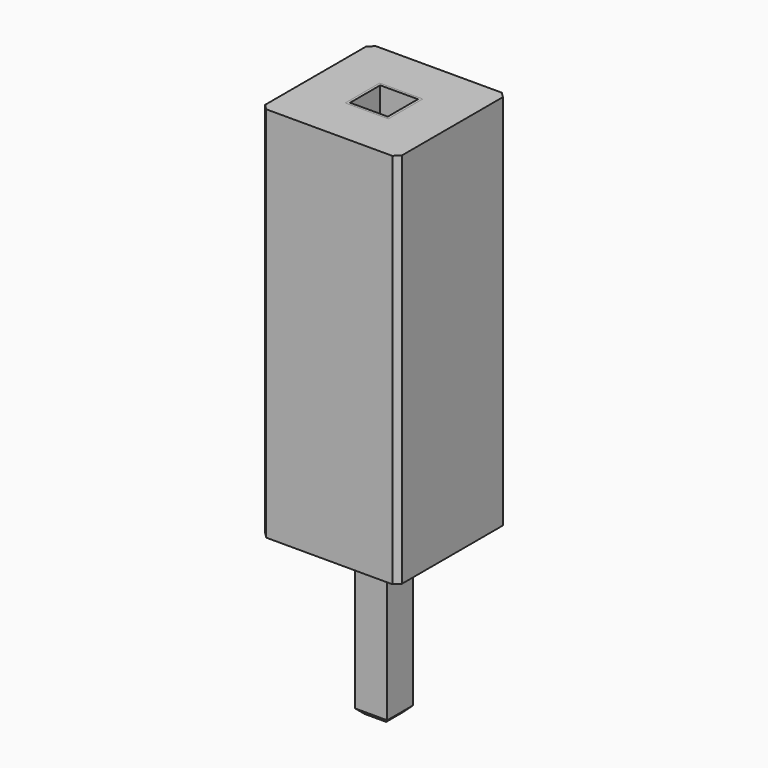
from build123d import *

# Parameters (mm, degrees)
F0_W          = 2.54
F0_H          = 2.54
F0_W_2        = 0.8
F0_H_2        = 0.8
F1_DEPTH      = 7
F2_SIZE       = 0.1
F3_W          = 0.8
F3_H          = 0.8
F3_W_2        = 0.7
F3_H_2        = 0.7
F4_DEPTH      = 7
F3_W_3        = 0.6
F3_H_3        = 0.6
F5_DEPTH      = 0.1
F6_DEPTH      = 3
F6_DEPTH_BACK = 0.1
F7_SIZE       = 0.1


with BuildPart() as f1:
    # F0 (on Top) → F1 (new body)
    with BuildSketch(Plane.XY):
        Rectangle(F0_W, F0_H)
        Rectangle(F0_W_2, F0_H_2, mode=Mode.SUBTRACT)
    extrude(amount=F1_DEPTH)

    # F2
    f2_edges = [f1.edges().sort_by_distance(p)[0] for p in [
        (1.27, -1.27, 3.5),
        (-1.27, -1.27, 3.5),
        (-1.27, 1.27, 3.5),
        (1.27, 1.27, 3.5),
    ]]
    chamfer(f2_edges, length=F2_SIZE)


with BuildPart() as f4:
    # F3 (on Top) → F4 (new body, through all)
    with BuildSketch(Plane.XY):
        Rectangle(F3_W, F3_H)
        Rectangle(F3_W_2, F3_H_2, mode=Mode.SUBTRACT)
    extrude(amount=F4_DEPTH)

    # F3 (on Top) → F5 (join)
    with BuildSketch(Plane.XY):
        Rectangle(F3_W_2, F3_H_2)
        Rectangle(F3_W_3, F3_H_3, mode=Mode.SUBTRACT)
    extrude(amount=F5_DEPTH)

    # F3 (on Top) → F6 (join, two sides)
    with BuildSketch(Plane.XY) as f6_sk:
        Rectangle(F3_W_3, F3_H_3)
    extrude(amount=-F6_DEPTH)
    extrude(f6_sk.sketch, amount=F6_DEPTH_BACK)

    # F7
    f7_edges = [f4.edges().sort_by_distance(p)[0] for p in [
        (0.3, 0, -3),
        (0, 0.3, -3),
        (-0.3, 0, -3),
        (0, -0.3, -3),
    ]]
    chamfer(f7_edges, length=F7_SIZE)


solid = Compound([f1.part, f4.part])
